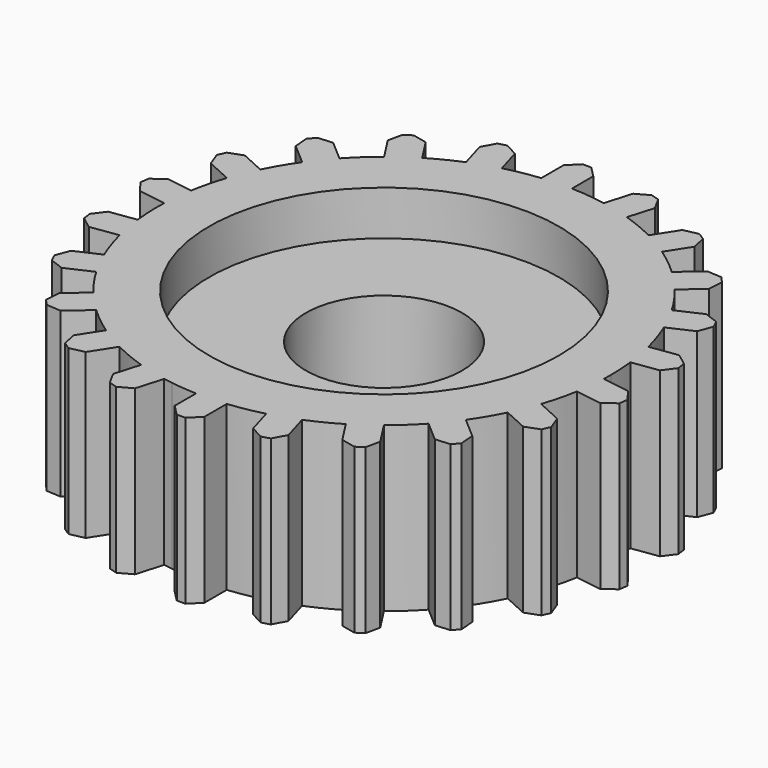
from build123d import *

# Parameters (mm, degrees)
F0_R     = 2.667
F1_DEPTH = 5.588
F2_DEPTH = 5.588
F3_COUNT = 22
F5_R     = 6.35
F5_R_2   = 2.667
F6_DEPTH = 1.27
F4_R     = 5.969
F4_R_2   = 2.667
F7_DEPTH = 1.524


with BuildPart() as f1:
    # F0 (on Top) → F1 (new body)
    with BuildSketch(Plane.XY):
        with BuildLine():
            ThreePointArc((-0.7982498419, 7.705764478), (-5.1880616551, -5.753262141), (7.747, 0))
            ThreePointArc((7.747, 0), (5.5544090358, 5.4004212116), (0.2177501581, 7.74393917))
            ThreePointArc((0.2177501581, 7.74393917), (-0.2908767737, 7.7415372958), (-0.7982498419, 7.705764478))
        make_face()
        Circle(F0_R, mode=Mode.SUBTRACT)
    extrude(amount=F1_DEPTH)

    # F0 (on Top) → F2 (join)
    with BuildSketch(Plane.XY):
        with BuildLine():
            ThreePointArc((-0.7982498419, 7.705764478), (-0.2908767737, 7.7415372958), (0.2177501581, 7.74393917))
            Line((0.2177501581, 7.74393917), (0.2177501581, 8.6572673449))
            Line((0.2177501581, 8.6572673449), (0, 8.875017503))
            Line((0, 8.875017503), (-0.141982497, 9.017))
            Line((-0.141982497, 9.017), (-0.4385171868, 9.017))
            Line((-0.4385171868, 9.017), (-0.7194063476, 8.7361108392))
            Line((-0.7194063476, 8.7361108392), (-0.7982498419, 8.6572673449))
            Line((-0.7982498419, 8.6572673449), (-0.7982498419, 7.705764478))
        make_face()
    extrude(amount=F2_DEPTH)

    # F3: F1 ×22 about axis
    f3_axis = Axis((0, 0, 0), (0, 0, -1))


with BuildPart() as f1_1:
    add(f1.part)
    for i in range(1, F3_COUNT):
        add(f1.part.rotate(f3_axis, i * 360 / F3_COUNT))

    # F5 (on face) → F6 (cut)
    with BuildSketch(Plane.XY):
        Circle(F5_R)
        Circle(F5_R_2, mode=Mode.SUBTRACT)
    extrude(amount=F6_DEPTH, mode=Mode.SUBTRACT)

    # F4 (on face) → F7 (cut)
    with BuildSketch(Plane.XY.offset(5.588)):
        Circle(F4_R)
        Circle(F4_R_2, mode=Mode.SUBTRACT)
    extrude(amount=-F7_DEPTH, mode=Mode.SUBTRACT)


solid = f1_1.part
